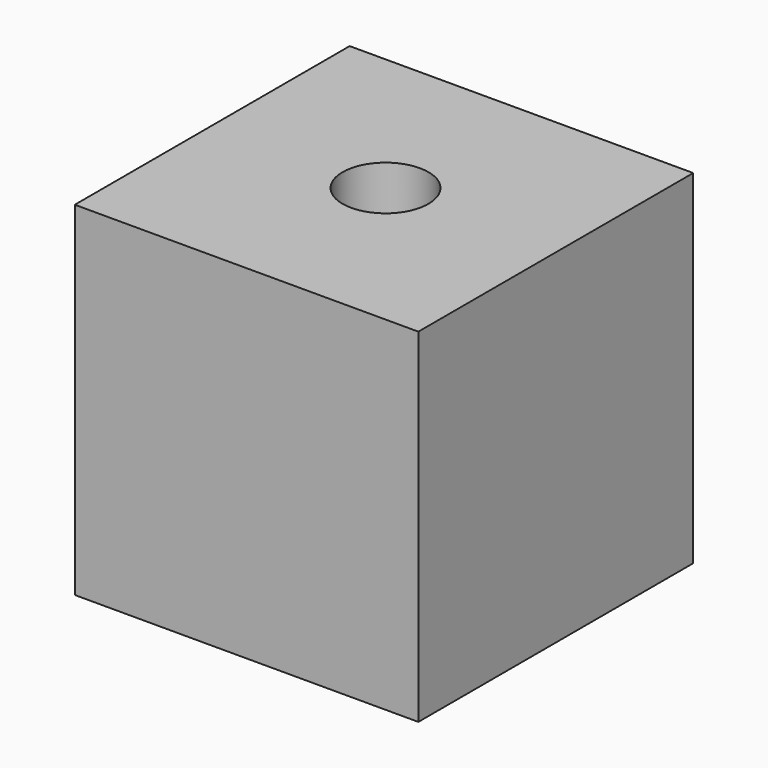
from build123d import *

# Parameters (mm, degrees)
F0_W     = 25.4
F0_H     = 25.4
F1_DEPTH = 25.4
F3_D     = 6.35
F3_DEPTH = 12.7
F3_TIP   = 1.9077324654


with BuildPart() as f1:
    # F0 (on Top) → F1 (new body)
    with BuildSketch(Plane.XY):
        with Locations((12.7, 12.7)):
            Rectangle(F0_W, F0_H)
    extrude(amount=F1_DEPTH)

    # F3
    with Locations(Plane.XY.offset(25.4)):
        with Locations((12.7, 12.8413280472)):
            Hole(F3_D / 2, depth=F3_DEPTH)
            with Locations((0, 0, -(F3_DEPTH + F3_TIP / 2))):  # 118° drill point
                Cone(0, F3_D / 2, F3_TIP, mode=Mode.SUBTRACT)


solid = f1.part
